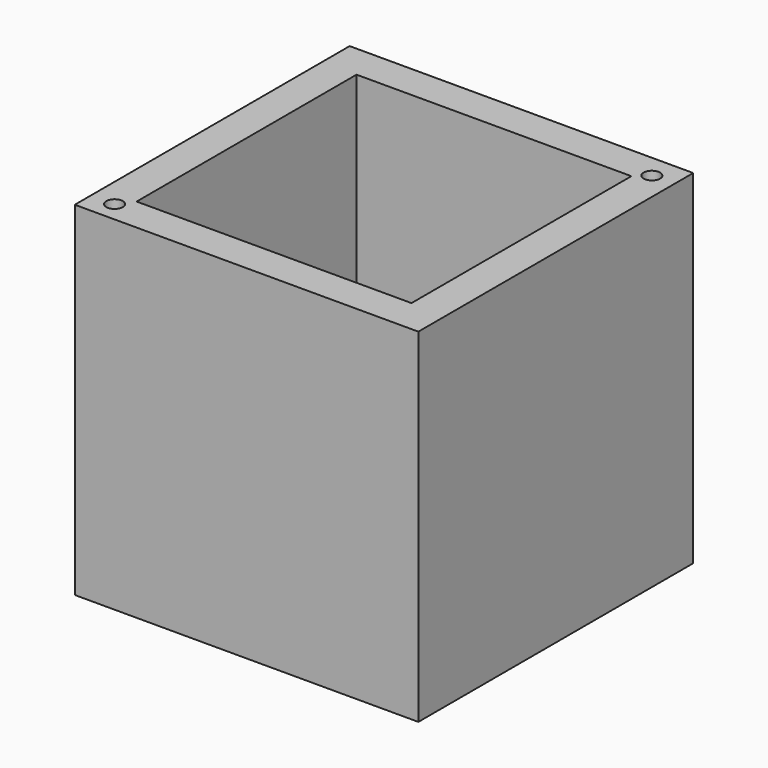
from build123d import *

# Parameters (mm, degrees)
F0_W     = 25.4
F0_H     = 25.4
F1_DEPTH = 25.4
F2_T     = -2.54
F3_R     = 0.6096
F4_DEPTH = 12.8016
F5_R     = 0.6096
F6_DEPTH = 13.208


with BuildPart() as f1:
    # F0 (on Front) → F1 (new body)
    with BuildSketch(Plane.XZ):
        Rectangle(F0_W, F0_H)
    extrude(amount=F1_DEPTH)

    # F2
    f2_openings = [f1.faces().sort_by_distance(p)[0] for p in [
        (0, -12.7, 12.7),
    ]]
    offset(amount=F2_T, openings=f2_openings)

    # F3 (on face) → F4 (cut)
    with BuildSketch(Plane.XY.offset(12.7)):
        with Locations((-10.955215, -23.901867)):
            Circle(F3_R)
    extrude(amount=-F4_DEPTH, mode=Mode.SUBTRACT)

    # F5 (on face) → F6 (cut)
    with BuildSketch(Plane.XY.offset(12.7)):
        with Locations((11.037277, -1.745251)):
            Circle(F5_R)
    extrude(amount=-F6_DEPTH, mode=Mode.SUBTRACT)


solid = f1.part
